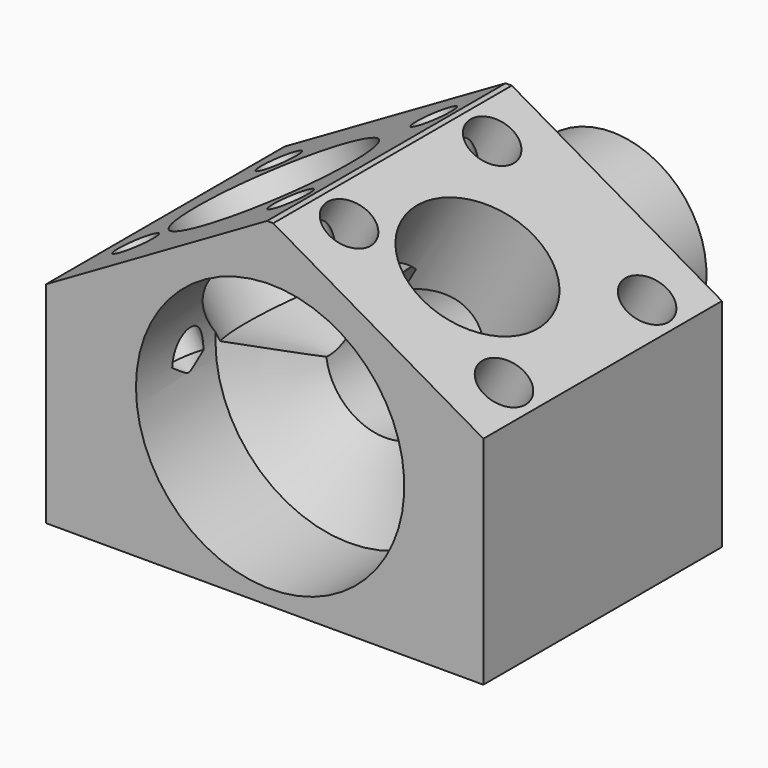
from build123d import *

# Parameters (mm, degrees)
F0_W      = 22
F0_H      = 17
F1_DEPTH  = 15
F2_R      = 4.75
F3_DEPTH  = 6.5
F4_R      = 3
F5_DEPTH  = 21.501
F7_DEPTH  = 21.501
F9_D      = 2.5
F9_DEPTH  = 5
F9_TIP    = 0.7510757738
F11_D     = 7
F11_DEPTH = 6.5
F11_TIP   = 2.1030121666
F13_D     = 2
F13_DEPTH = 5
F13_TIP   = 0.600860619
F15_D     = 9
F15_DEPTH = 5
F15_TIP   = 2.7038727856
F17_D     = 13.5
F17_DEPTH = 5
F17_TIP   = 4.0558091784


with BuildPart() as f1:
    # F0 (on Front) → F1 (new body)
    with BuildSketch(Plane.XZ):
        with Locations((-0.2716044973, 8.5)):
            Rectangle(F0_W, F0_H)
    extrude(amount=-F1_DEPTH)

    # F2 (on face) → F3 (join)
    with BuildSketch(Plane(origin=(0, 15, 0), x_dir=(-1, 0, 0), z_dir=(0, 1, 0))):
        with Locations((0, 7.5)):
            Circle(F2_R)
    extrude(amount=F3_DEPTH)

    # F4 (on face) → F5 (cut, through all)
    with BuildSketch(Plane.XZ):
        with Locations((0, 7.5)):
            Circle(F4_R)
    extrude(amount=-F5_DEPTH, mode=Mode.SUBTRACT)

    # F6 (on Front) → F7 (cut, through all)
    with BuildSketch(Plane.XZ):
        Polygon((-11.2716044973, 10.5829994231), (0, 17.0906633139), (10.7283955027, 10.8966212824), (10.7283955027, 17.0926114943), (-11.2716044973, 17.0926114943), align=None)
    extrude(amount=-F7_DEPTH, mode=Mode.SUBTRACT)

    # F9
    with Locations(Plane(origin=(7.4004742987, 0, 12.8179974854), x_dir=(0.8660254038, 0, -0.5), z_dir=(0.5, 0, 0.8660254038))):
        with Locations((-6.757392548, 3.0284983804), (-6.757392548, 12.0284983804), (2.242607452, 12.0284983804), (2.242607452, 3.0284983804)):
            Hole(F9_D / 2, depth=F9_DEPTH)
            with Locations((0, 0, -(F9_DEPTH + F9_TIP / 2))):  # 118° drill point
                Cone(0, F9_D / 2, F9_TIP, mode=Mode.SUBTRACT)

    # F11
    with Locations(Plane(origin=(7.4004742987, 0, 12.8179974854), x_dir=(0.8660254038, 0, -0.5), z_dir=(0.5, 0, 0.8660254038))):
        with Locations((-2.507247594, 6.5)):
            Hole(F11_D / 2, depth=F11_DEPTH)
            with Locations((0, 0, -(F11_DEPTH + F11_TIP / 2))):  # 118° drill point
                Cone(0, F11_D / 2, F11_TIP, mode=Mode.SUBTRACT)

    # F13
    with Locations(Plane(origin=(-7.4004742987, 0, 12.8179974854), x_dir=(0.8660254038, 0, 0.5), z_dir=(-0.5, 0, 0.8660254038))):
        with Locations((-2.2858018056, 3.2671960071), (-2.2858018056, 12.2671960071), (6.7141981944, 12.2671960071), (6.7141981944, 3.2671960071)):
            Hole(F13_D / 2, depth=F13_DEPTH)
            with Locations((0, 0, -(F13_DEPTH + F13_TIP / 2))):  # 118° drill point
                Cone(0, F13_D / 2, F13_TIP, mode=Mode.SUBTRACT)

    # F15
    with Locations(Plane(origin=(-7.4004742987, 0, 12.8179974854), x_dir=(0.8660254038, 0, 0.5), z_dir=(-0.5, 0, 0.8660254038))):
        with Locations((1.8900038755, 7.4435626157)):
            Hole(F15_D / 2, depth=F15_DEPTH)
            with Locations((0, 0, -(F15_DEPTH + F15_TIP / 2))):  # 118° drill point
                Cone(0, F15_D / 2, F15_TIP, mode=Mode.SUBTRACT)

    # F17
    with Locations(Plane.XZ):
        with Locations((0, 7.5)):
            Hole(F17_D / 2, depth=F17_DEPTH)
            with Locations((0, 0, -(F17_DEPTH + F17_TIP / 2))):  # 118° drill point
                Cone(0, F17_D / 2, F17_TIP, mode=Mode.SUBTRACT)


solid = f1.part
